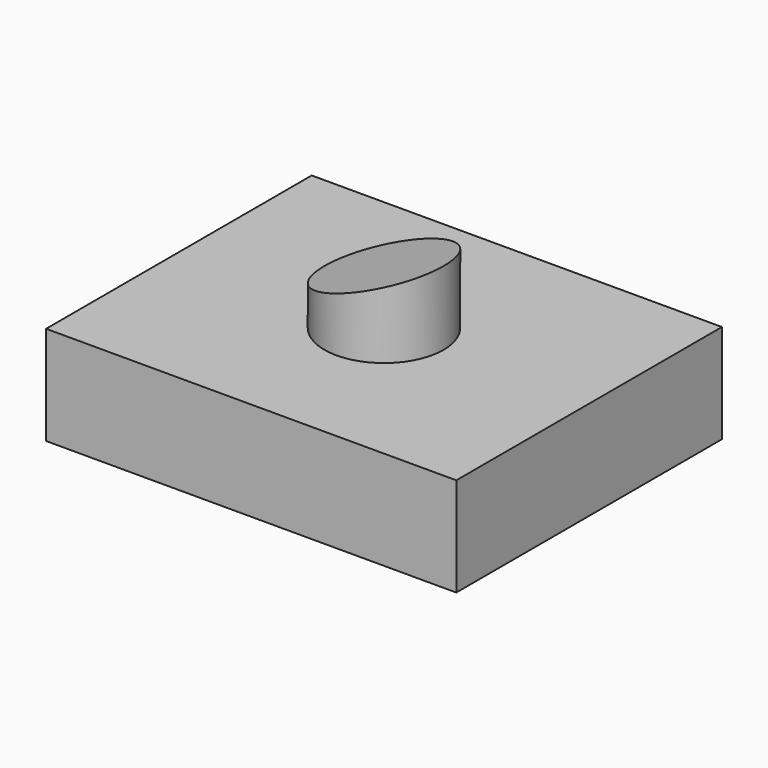
from build123d import *

# Parameters (mm, degrees)
F0_W     = 105.438776
F0_H     = 85.334472
F1_DEPTH = 25.4
F2_R     = 15.310247
F3_DEPTH = 25.4
F5_DEPTH = 87.376


with BuildPart() as f1:
    # F0 (on Top) → F1 (new body)
    with BuildSketch(Plane.XY):
        Rectangle(F0_W, F0_H)
    extrude(amount=F1_DEPTH)

    # F2 (on face) → F3 (join)
    with BuildSketch(Plane.XY.offset(25.4)):
        Circle(F2_R)
    extrude(amount=F3_DEPTH)

    # F4 (on face) → F5 (cut)
    with BuildSketch(Plane(origin=(0, 42.667236, 0), x_dir=(-1, 0, 0), z_dir=(0, 1, 0))):
        Polygon((-27.478183, 63.615456), (-29.094545, 48.837271), (23.552727, 31.750001), (32.437156, 59.123653), align=None)
    extrude(amount=-F5_DEPTH, mode=Mode.SUBTRACT)


solid = f1.part
